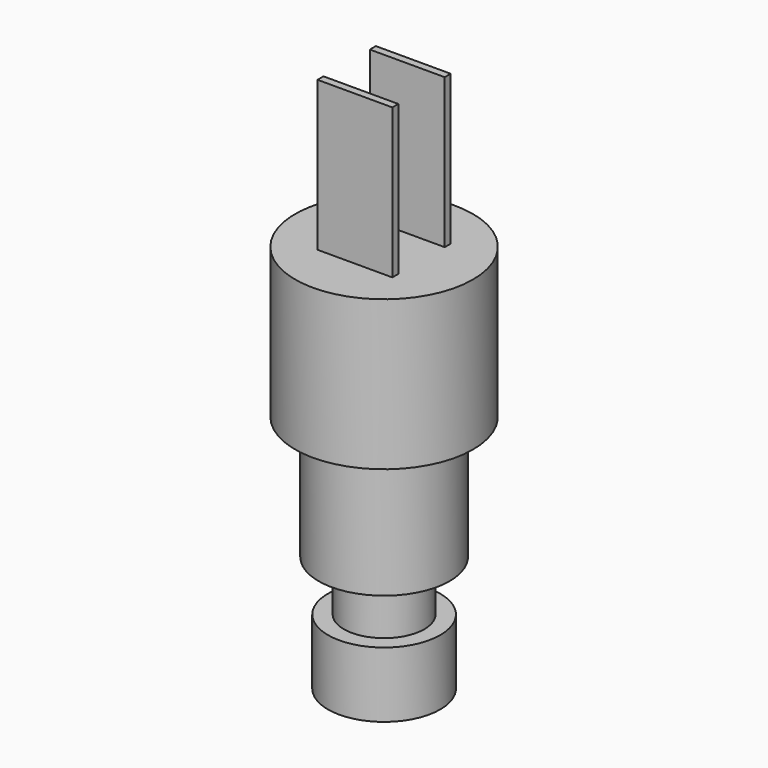
from build123d import *

# Parameters (mm, degrees)
F0_R     = 3
F1_DEPTH = 3.5
F2_R     = 2.15
F3_DEPTH = 2.7
F4_R     = 3.5
F5_DEPTH = 6.6
F6_R     = 4.75
F7_DEPTH = 8
F8_W     = 4
F8_H     = 0.4
F9_DEPTH = 8


with BuildPart() as f1:
    # F0 (on Top) → F1 (new body)
    with BuildSketch(Plane.XY):
        Circle(F0_R)
    extrude(amount=F1_DEPTH)

    # F2 (on face) → F3 (join)
    with BuildSketch(Plane.XY.offset(3.5)):
        Circle(F2_R)
    extrude(amount=F3_DEPTH)

    # F4 (on face) → F5 (join)
    with BuildSketch(Plane.XY.offset(6.2)):
        Circle(F4_R)
    extrude(amount=F5_DEPTH)

    # F6 (on face) → F7 (join)
    with BuildSketch(Plane.XY.offset(12.8)):
        Circle(F6_R)
    extrude(amount=F7_DEPTH)

    # F8 (on face) → F9 (join)
    with BuildSketch(Plane.XY.offset(20.8)):
        with Locations((0, -1.75)):
            Rectangle(F8_W, F8_H)
        with Locations((0, 1.75)):
            Rectangle(F8_W, F8_H)
    extrude(amount=F9_DEPTH)


solid = f1.part
